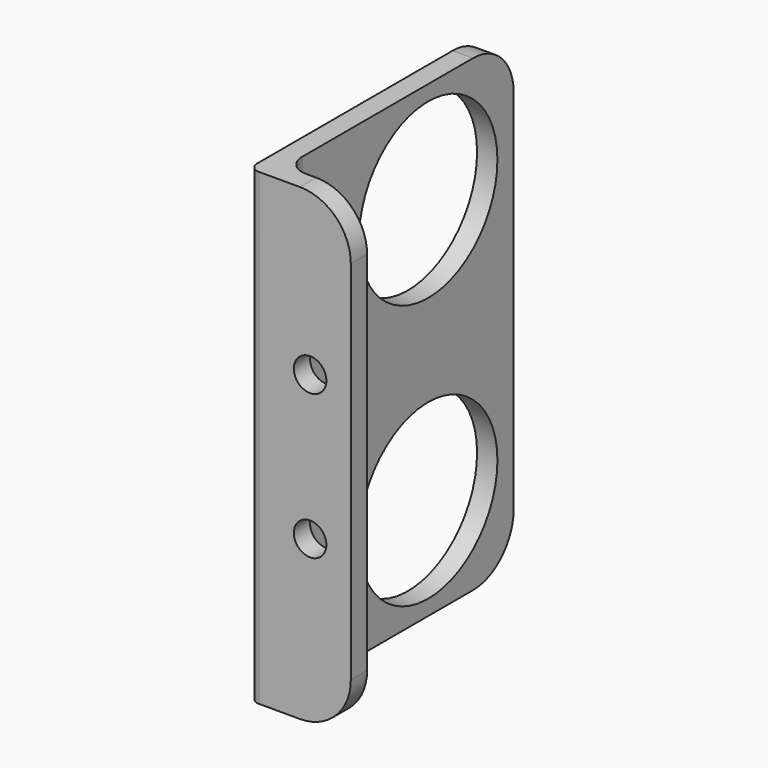
from build123d import *

# Parameters (mm, degrees)
F0_W     = 30
F0_H     = 46
F0_R     = 8.5
F1_DEPTH = 2
F2_W     = 10
F2_H     = 2
F3_DEPTH = 46
F4_R     = 1.6
F5_DEPTH = 25
F6_R     = 1
F7_R     = 2
F8_R     = 5
F9_R     = 5


with BuildPart() as f1:
    # F0 (on Right) → F1 (new body)
    with BuildSketch(Plane.YZ):
        with Locations((15, 23)):
            Rectangle(F0_W, F0_H)
        with Locations((19.5, 10)):
            Circle(F0_R, mode=Mode.SUBTRACT)
        with Locations((19.5, 36)):
            Circle(F0_R, mode=Mode.SUBTRACT)
    extrude(amount=F1_DEPTH)

    # F2 (on face) → F3 (join)
    with BuildSketch(Plane.XY.offset(46)):
        with Locations((5, 1)):
            Rectangle(F2_W, F2_H)
    extrude(amount=-F3_DEPTH)

    # F4 (on face) → F5 (cut)
    with BuildSketch(Plane.XZ):
        with Locations((6, 30.1)):
            Circle(F4_R)
        with Locations((6, 15.9)):
            Circle(F4_R)
    extrude(amount=-F5_DEPTH, mode=Mode.SUBTRACT)

    # F6
    f6_edges = [f1.edges().sort_by_distance(p)[0] for p in [
        (0, 0, 23),
    ]]
    fillet(f6_edges, radius=F6_R)

    # F7
    f7_edges = [f1.edges().sort_by_distance(p)[0] for p in [
        (2, 2, 23),
    ]]
    fillet(f7_edges, radius=F7_R)

    # F8
    f8_edges = [f1.edges().sort_by_distance(p)[0] for p in [
        (1, 30, 46),
    ]]
    fillet(f8_edges, radius=F8_R)

    # F9
    f9_edges = [f1.edges().sort_by_distance(p)[0] for p in [
        (1, 30, 0),
        (10, 1, 46),
        (10, 1, 0),
    ]]
    fillet(f9_edges, radius=F9_R)


solid = f1.part
